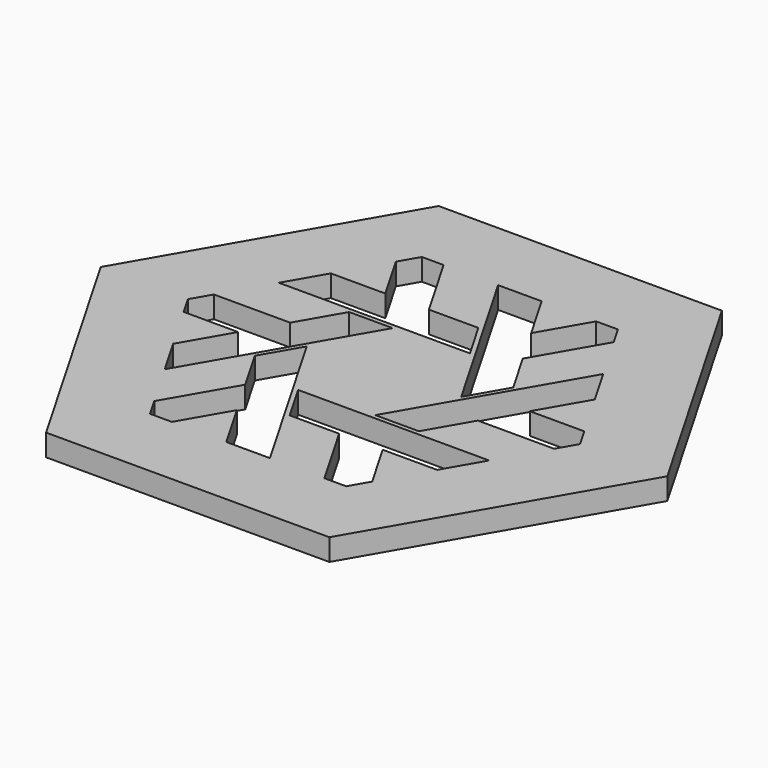
from build123d import *

# Parameters (mm, degrees)
PAD_DEPTH = 10


with BuildPart() as part:
    # Sketch → Pad (new body)
    with BuildSketch(Plane.XY):
        Polygon((130, 0), (65, 112.583302), (-65, 112.583302), (-130, 0), (-65, -112.583302), (65, -112.583302), align=None)
        Polygon((35, 77.942286), (22.5, 56.291651), (10, 77.942286), (-10, 77.942286), (33.845299, 2), (43.845299, 19.320508), (32.5, 38.971143), (50, 69.282032), (45, 77.942286), align=None, mode=Mode.SUBTRACT)
        Polygon((85, -8.660254), (50, -8.660254), (38.654701, -28.310889), (18.654701, -28.310889), (62.5, 47.631397), (72.5, 30.310889), (60, 8.660254), (85, 8.660254), (90, 0), align=None, mode=Mode.SUBTRACT)
        Polygon((35, -77.942286), (17.5, -47.631397), (-5.190599, -47.631397), (-15.190599, -30.310889), (72.5, -30.310889), (62.5, -47.631397), (37.5, -47.631397), (50, -69.282032), (45, -77.942286), align=None, mode=Mode.SUBTRACT)
        Polygon((-85, -8.660254), (-60, -8.660254), (-72.5, -30.310889), (-62.5, -47.631397), (-18.654701, 28.310889), (-38.654701, 28.310889), (-50, 8.660254), (-85, 8.660254), (-90, 0), align=None, mode=Mode.SUBTRACT)
        Polygon((-50, 69.282032), (-45, 77.942286), (-35, 77.942286), (-17.5, 47.631397), (5.190599, 47.631397), (15.190599, 30.310889), (-72.5, 30.310889), (-62.5, 47.631397), (-37.5, 47.631397), align=None, mode=Mode.SUBTRACT)
        Polygon((-35, -77.942286), (-22.5, -56.291651), (-10, -77.942286), (10, -77.942286), (-33.845299, -2), (-43.845299, -19.320508), (-32.5, -38.971143), (-50, -69.282032), (-45, -77.942286), align=None, mode=Mode.SUBTRACT)
    extrude(amount=PAD_DEPTH)


solid = part.part
